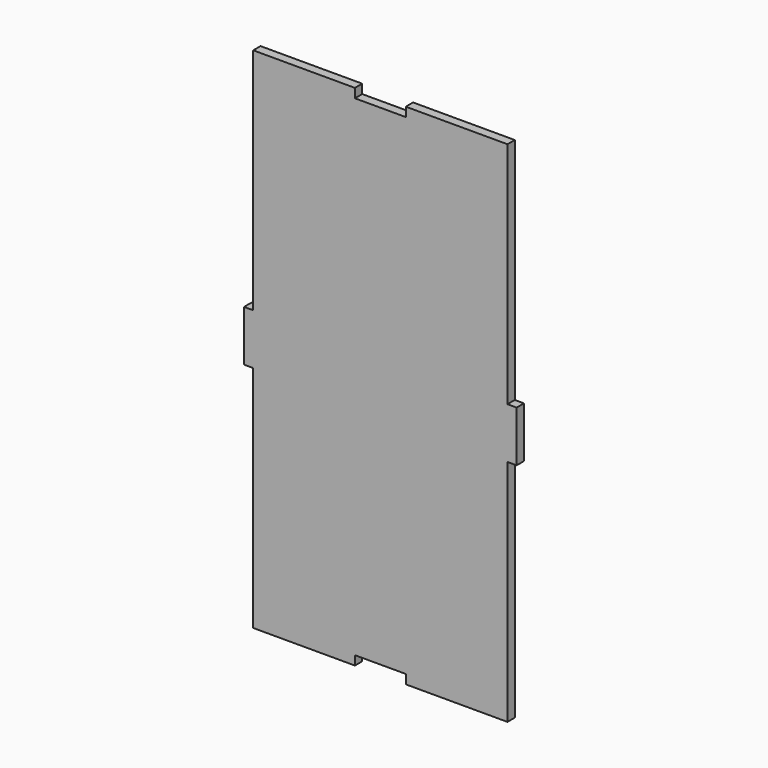
from build123d import *

# Parameters (mm, degrees)
F0_W     = 2.7432
F0_H     = 15.24
F1_DEPTH = 2.7432


with BuildPart() as f1:
    # F0 (on Front) → F1 (new body)
    with BuildSketch(Plane.XZ):
        Polygon((-7.62, 84.245604), (-38.1, 84.245604), (-38.1, 15.665604), (-38.1, 0.425604), (-38.1, -68.154396), (-7.62, -68.154396), (-7.62, -65.411196), (7.62, -65.411196), (7.62, -68.154396), (38.1, -68.154396), (38.1, 0.425604), (38.1, 15.665604), (38.1, 84.245604), (7.62, 84.245604), (7.62, 81.502404), (-7.62, 81.502404), align=None)
        with Locations((-39.4716, 8.045604)):
            Rectangle(F0_W, F0_H)
        with Locations((39.4716, 8.045604)):
            Rectangle(F0_W, F0_H)
    extrude(amount=F1_DEPTH)


solid = f1.part
